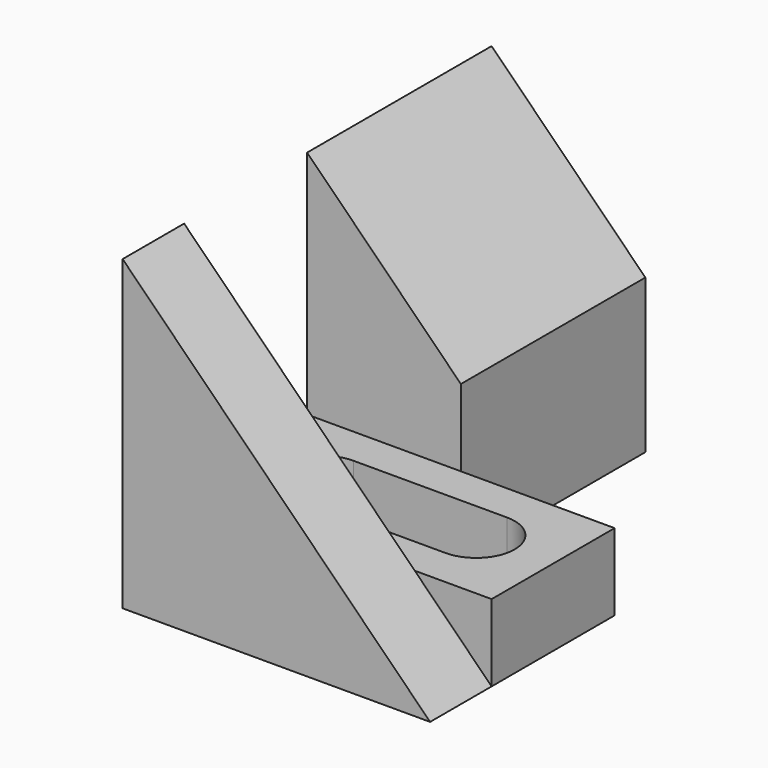
from build123d import *

# Parameters (mm, degrees)
F1_DEPTH = 38.1
F2_W     = 12.7
F2_H     = 19.05
F3_DEPTH = 25.401
F4_W     = 12.7
F4_H     = 19.05
F5_DEPTH = 25.401
F7_DEPTH = 12.7
F9_DEPTH = 6.351


with BuildPart() as f1:
    # F0 (on Front) → F1 (new body)
    with BuildSketch(Plane.XZ):
        Polygon((0, 25.4), (0, 0), (25.4, 0), align=None)
    extrude(amount=F1_DEPTH)

    # F2 (on face) → F3 (cut, through all)
    with BuildSketch(Plane(origin=(0, 0, 0), x_dir=(1, 0, 0), z_dir=(0, 0, -1))):
        with Locations((19.05, 9.525)):
            Rectangle(F2_W, F2_H)
    extrude(amount=-F3_DEPTH, mode=Mode.SUBTRACT)

    # F4 (on face) → F5 (cut, through all)
    with BuildSketch(Plane(origin=(0, 0, 0), x_dir=(0, -1, 0), z_dir=(-1, 0, 0))):
        with Locations((25.4, 15.875)):
            Rectangle(F4_W, F4_H)
    extrude(amount=-F5_DEPTH, mode=Mode.SUBTRACT)

    # F6 (on face) → F7 (join)
    with BuildSketch(Plane(origin=(0, -19.05, 0), x_dir=(-1, 0, 0), z_dir=(0, 1, 0))):
        Polygon((-25.4, 0), (-19.05, 6.35), (-25.4, 6.35), align=None)
    extrude(amount=-F7_DEPTH)

    # F8 (on face) → F9 (cut, through all)
    with BuildSketch(Plane.XY.offset(6.35)):
        with BuildLine():
            ThreePointArc((3.175, -25.4), (4.1049359697, -27.6450640303), (6.35, -28.575))
            Line((6.35, -28.575), (19.05, -28.575))
            ThreePointArc((19.05, -28.575), (21.2950640303, -27.6450640303), (22.225, -25.4))
            ThreePointArc((22.225, -25.4), (21.2950640303, -23.1549359697), (19.05, -22.225))
            Line((19.05, -22.225), (6.35, -22.225))
            ThreePointArc((6.35, -22.225), (4.1049359697, -23.1549359697), (3.175, -25.4))
        make_face()
    extrude(amount=-F9_DEPTH, mode=Mode.SUBTRACT)


solid = f1.part
